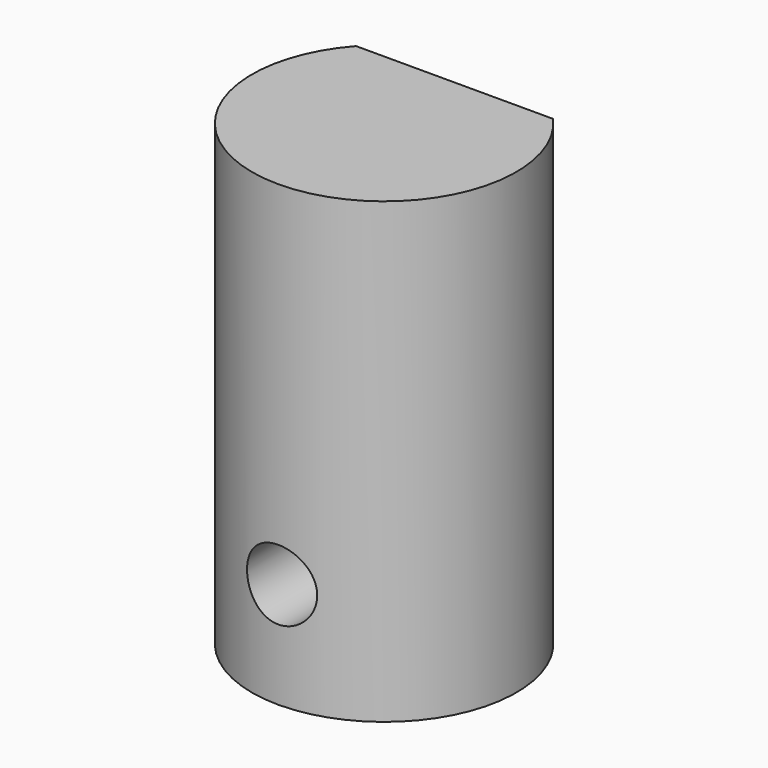
from build123d import *

# Parameters (mm, degrees)
F1_DEPTH = 33.02
F2_R     = 2.5273
F3_DEPTH = 25.4
F4_R     = 2.667
F5_DEPTH = 10.16


with BuildPart() as f1:
    # F0 (on Top) → F1 (new body)
    with BuildSketch(Plane.XY):
        with BuildLine():
            Line((7.099516, 6.35), (-7.099516, 6.35))
            ThreePointArc((-7.099516, 6.35), (0, -9.525), (7.099516, 6.35))
        make_face()
    extrude(amount=F1_DEPTH)

    # F2 (on face) → F3 (cut)
    with BuildSketch(Plane(origin=(0, 6.35, 0), x_dir=(-1, 0, 0), z_dir=(0, 1, 0))):
        with Locations((0, 7.62)):
            Circle(F2_R)
    extrude(amount=-F3_DEPTH, mode=Mode.SUBTRACT)

    # F4 (on face) → F5 (cut)
    with BuildSketch(Plane(origin=(0, 0, 0), x_dir=(1, 0, 0), z_dir=(0, 0, -1))):
        Circle(F4_R)
    extrude(amount=-F5_DEPTH, mode=Mode.SUBTRACT)


solid = f1.part
